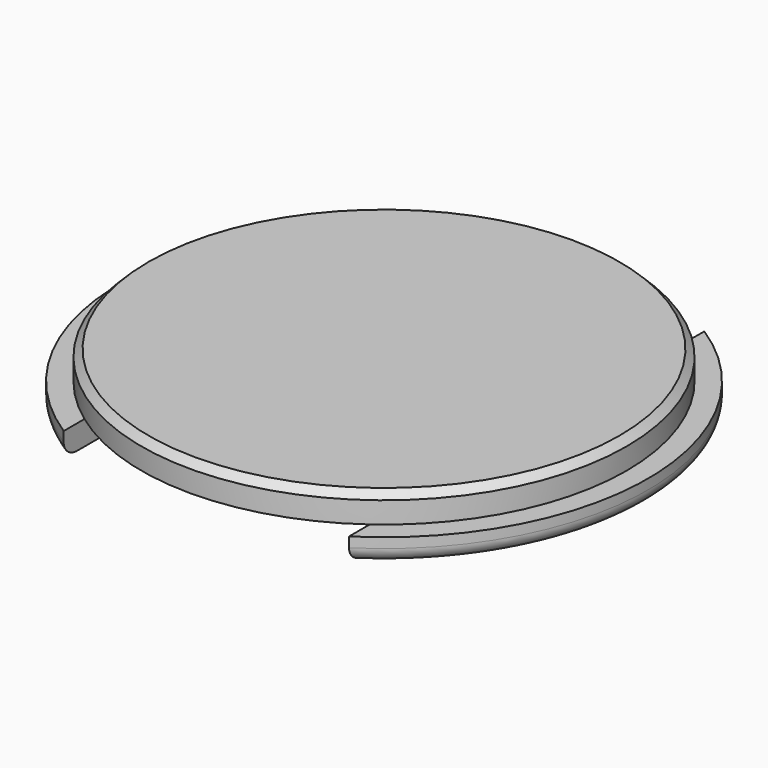
from build123d import *

# Parameters (mm, degrees)
F0_R     = 18.5
F1_DEPTH = 1.7
F2_R     = 17
F3_DEPTH = 2
F4_SIZE  = 0.5
F5_R     = 1
F6_W     = 20
F6_H     = 55.344078
F7_DEPTH = 1.7


with BuildPart() as f1:
    # F0 (on Top) → F1 (new body)
    with BuildSketch(Plane.XY):
        Circle(F0_R)
    extrude(amount=F1_DEPTH)

    # F2 (on face) → F3 (join)
    with BuildSketch(Plane.XY.offset(1.7)):
        Circle(F2_R)
    extrude(amount=F3_DEPTH)

    # F4
    f4_edges = [f1.edges().sort_by_distance(p)[0] for p in [
        (-17, 0, 3.7),
    ]]
    chamfer(f4_edges, length=F4_SIZE)

    # F5
    f5_edges = [f1.edges().sort_by_distance(p)[0] for p in [
        (-18.5, 0, 0),
    ]]
    fillet(f5_edges, radius=F5_R)

    # F6 (on face) → F7 (cut)
    with BuildSketch(Plane(origin=(0, 0, 0), x_dir=(1, 0, 0), z_dir=(0, 0, -1))):
        Rectangle(F6_W, F6_H)
    extrude(amount=-F7_DEPTH, mode=Mode.SUBTRACT)


solid = f1.part
